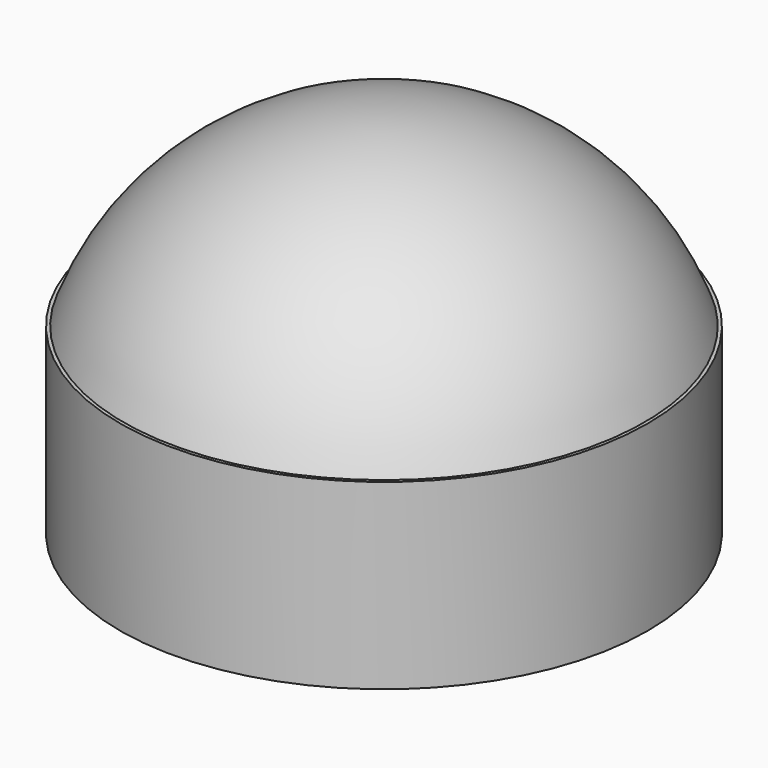
from build123d import *

# Parameters (mm, degrees)
F0_R     = 10.125
F1_DEPTH = 7


with BuildPart() as f1:
    # F0 (on Top) → F1 (new body)
    with BuildSketch(Plane.XY):
        Circle(F0_R)
    extrude(amount=F1_DEPTH)

    # F2 (on Front) → F3 (revolve)
    with BuildSketch(Plane.XZ):
        with BuildLine():
            Line((0, 7), (0, 14))
            ThreePointArc((0, 14), (-6.103278, 12.076111), (-10, 7))
            Line((-10, 7), (0, 7))
        make_face()
    revolve(axis=Axis((0, 0, 10.5), (0, 0, -1)))


solid = f1.part
